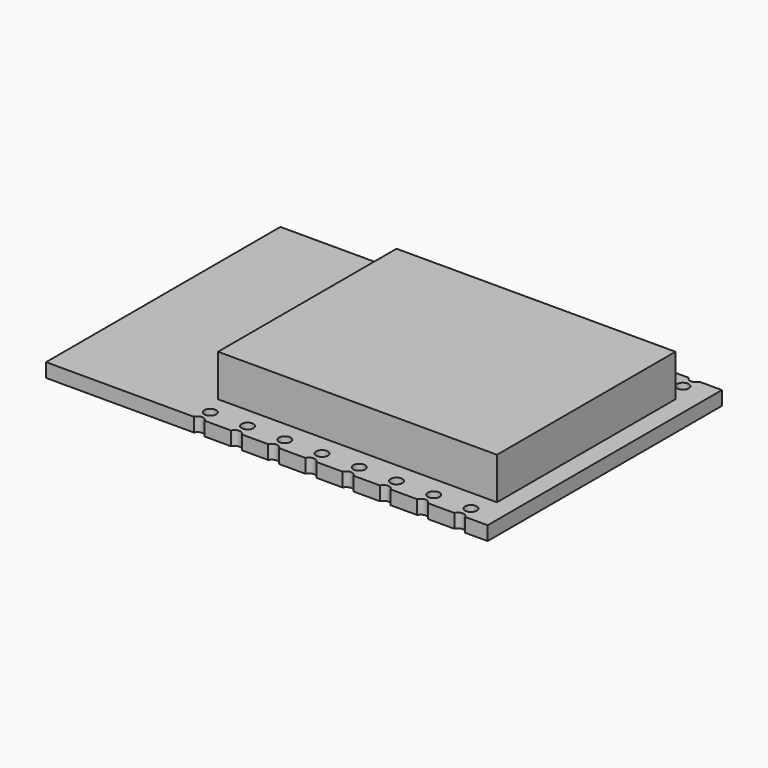
from build123d import *

# Parameters (mm, degrees)
F0_R     = 0.32131
F0_W     = 15.24
F0_H     = 12.192
F1_DEPTH = 0.762
F2_DEPTH = 2.286


with BuildPart() as f1:
    # F0 (on Top) → F1 (new body)
    with BuildSketch(Plane.XY):
        with BuildLine():
            Line((12.065, -8.001), (12.065, 8.001))
            Line((12.065, 8.001), (10.836146, 8.001))
            ThreePointArc((10.836146, 8.001), (10.541, 7.80669), (10.245854, 8.001))
            Line((10.245854, 8.001), (8.804146, 8.001))
            ThreePointArc((8.804146, 8.001), (8.509, 7.80669), (8.213854, 8.001))
            Line((8.213854, 8.001), (6.772146, 8.001))
            ThreePointArc((6.772146, 8.001), (6.477, 7.80669), (6.181854, 8.001))
            Line((6.181854, 8.001), (4.740146, 8.001))
            ThreePointArc((4.740146, 8.001), (4.445, 7.80669), (4.149854, 8.001))
            Line((4.149854, 8.001), (2.708146, 8.001))
            ThreePointArc((2.708146, 8.001), (2.413, 7.80669), (2.117854, 8.001))
            Line((2.117854, 8.001), (0.676146, 8.001))
            ThreePointArc((0.676146, 8.001), (0.381, 7.80669), (0.085854, 8.001))
            Line((0.085854, 8.001), (-1.355854, 8.001))
            ThreePointArc((-1.355854, 8.001), (-1.651, 7.80669), (-1.946146, 8.001))
            Line((-1.946146, 8.001), (-3.387854, 8.001))
            ThreePointArc((-3.387854, 8.001), (-3.683, 7.80669), (-3.978146, 8.001))
            Line((-3.978146, 8.001), (-12.065, 8.001))
            Line((-12.065, 8.001), (-12.065, -8.001))
            Line((-12.065, -8.001), (-3.992706, -8.001))
            ThreePointArc((-3.992706, -8.001), (-3.69756, -7.80669), (-3.402414, -8.001))
            Line((-3.402414, -8.001), (-1.958626, -8.001))
            ThreePointArc((-1.958626, -8.001), (-1.66348, -7.80669), (-1.368334, -8.001))
            Line((-1.368334, -8.001), (0.075454, -8.001))
            ThreePointArc((0.075454, -8.001), (0.3706, -7.80669), (0.665746, -8.001))
            Line((0.665746, -8.001), (2.109534, -8.001))
            ThreePointArc((2.109534, -8.001), (2.40468, -7.80669), (2.699826, -8.001))
            Line((2.699826, -8.001), (4.143614, -8.001))
            ThreePointArc((4.143614, -8.001), (4.43876, -7.80669), (4.733906, -8.001))
            Line((4.733906, -8.001), (6.177694, -8.001))
            ThreePointArc((6.177694, -8.001), (6.47284, -7.80669), (6.767986, -8.001))
            Line((6.767986, -8.001), (8.211774, -8.001))
            ThreePointArc((8.211774, -8.001), (8.50692, -7.80669), (8.802066, -8.001))
            Line((8.802066, -8.001), (10.245854, -8.001))
            ThreePointArc((10.245854, -8.001), (10.541, -7.80669), (10.836146, -8.001))
            Line((10.836146, -8.001), (12.065, -8.001))
        make_face()
        with Locations((-3.69721, -7.239)):
            Circle(F0_R, mode=Mode.SUBTRACT)
        with Locations((-1.66318, -7.239)):
            Circle(F0_R, mode=Mode.SUBTRACT)
        with Locations((0.37085, -7.239)):
            Circle(F0_R, mode=Mode.SUBTRACT)
        with Locations((2.40488, -7.239)):
            Circle(F0_R, mode=Mode.SUBTRACT)
        with Locations((4.43891, -7.239)):
            Circle(F0_R, mode=Mode.SUBTRACT)
        with Locations((6.47294, -7.239)):
            Circle(F0_R, mode=Mode.SUBTRACT)
        with Locations((8.50697, -7.239)):
            Circle(F0_R, mode=Mode.SUBTRACT)
        with Locations((10.541, -7.239)):
            Circle(F0_R, mode=Mode.SUBTRACT)
        with Locations((-3.64905, 7.239)):
            Circle(F0_R, mode=Mode.SUBTRACT)
        with Locations((-1.6219, 7.239)):
            Circle(F0_R, mode=Mode.SUBTRACT)
        with Locations((3.429, 0)):
            Rectangle(F0_W, F0_H, mode=Mode.SUBTRACT)
        with Locations((0.40525, 7.239)):
            Circle(F0_R, mode=Mode.SUBTRACT)
        with Locations((2.4324, 7.239)):
            Circle(F0_R, mode=Mode.SUBTRACT)
        with Locations((4.45955, 7.239)):
            Circle(F0_R, mode=Mode.SUBTRACT)
        with Locations((6.4867, 7.239)):
            Circle(F0_R, mode=Mode.SUBTRACT)
        with Locations((8.51385, 7.239)):
            Circle(F0_R, mode=Mode.SUBTRACT)
        with Locations((10.541, 7.239)):
            Circle(F0_R, mode=Mode.SUBTRACT)
        with Locations((3.429, 0)):
            Rectangle(F0_W, F0_H)
    extrude(amount=-F1_DEPTH)

    # F0 (on Top) → F2 (join)
    with BuildSketch(Plane.XY):
        with Locations((3.429, 0)):
            Rectangle(F0_W, F0_H)
    extrude(amount=F2_DEPTH)


solid = f1.part
